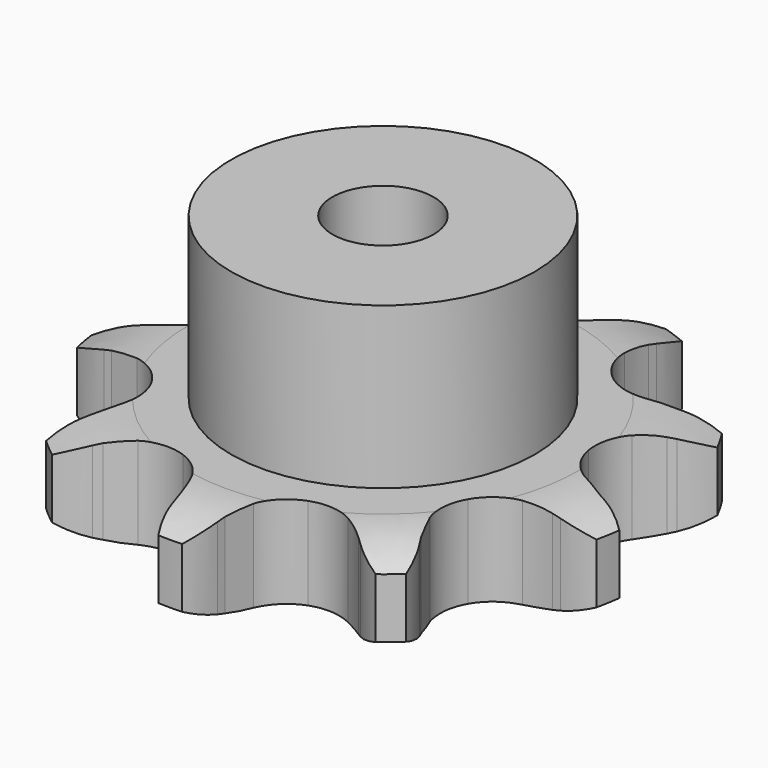
from build123d import *

# Parameters (mm, degrees)
PAD_DEPTH         = 9.1
SKETCH001_R       = 15
PAD001_DEPTH      = 25
SKETCH002_R       = 5
POCKET_DEPTH      = 0.001
POCKET_DEPTH_BACK = -25.001


with BuildPart() as part:
    # Sprocket → Pad (new body)
    with BuildSketch(Plane.XY):
        with BuildLine():
            ThreePointArc((-9.514802, 26.141704), (-7.412353, 24.683771), (-5.825038, 22.67721))
            Line((-5.825038, 22.67721), (-5.434483, 21.997709))
            ThreePointArc((-5.434483, 21.997709), (-4.695224, 20.852068), (-3.842323, 19.78832))
            ThreePointArc((-3.842323, 19.78832), (-2.105709, 18.514982), (0, 18.064197))
            ThreePointArc((0, 18.064197), (2.105709, 18.514982), (3.842323, 19.78832))
            ThreePointArc((3.842323, 19.78832), (4.695224, 20.852068), (5.434483, 21.997709))
            Line((5.434483, 21.997709), (5.825038, 22.67721))
            ThreePointArc((5.825038, 22.67721), (7.412353, 24.683771), (9.514802, 26.141704))
            ThreePointArc((9.514802, 26.141704), (10.18823, 23.673435), (10.114392, 21.116013))
            Line((10.114392, 21.116013), (9.976799, 20.344442))
            ThreePointArc((9.976799, 20.344442), (9.806701, 18.991642), (9.776296, 17.62853))
            ThreePointArc((9.776296, 17.62853), (10.288134, 15.536823), (11.611442, 13.837978))
            ThreePointArc((11.611442, 13.837978), (13.514268, 12.829775), (15.663077, 12.688935))
            Line((15.663077, 12.688935), (18.302911, 13.358005))
            ThreePointArc((18.302911, 13.358005), (18.6689, 13.498181), (19.038868, 13.627489))
            ThreePointArc((19.038868, 13.627489), (21.544615, 14.144297), (24.092324, 13.90971))
            ThreePointArc((24.092324, 13.90971), (23.021628, 11.586035), (21.321185, 9.674399))
            Line((21.321185, 9.674399), (20.719827, 9.171783))
            ThreePointArc((20.719827, 9.171783), (19.719961, 8.244816), (18.820478, 7.220156))
            ThreePointArc((18.820478, 7.220156), (17.868045, 5.288812), (17.789762, 3.136815))
            ThreePointArc((17.789762, 3.136815), (18.59935, 1.141374), (20.154903, -0.347744))
            Line((20.154903, -0.347744), (22.607203, -1.532059))
            ThreePointArc((22.607203, -1.532059), (22.97767, -1.659931), (23.3442, -1.798687))
            ThreePointArc((23.3442, -1.798687), (25.595911, -3.013451), (27.39678, -4.830792))
            ThreePointArc((27.39678, -4.830792), (25.08295, -5.922599), (22.551559, -6.293974))
            Line((22.551559, -6.293974), (21.767817, -6.292454))
            ThreePointArc((21.767817, -6.292454), (20.406032, -6.359851), (19.058349, -6.56661))
            ThreePointArc((19.058349, -6.56661), (17.087299, -7.433893), (15.644054, -9.032099))
            ThreePointArc((15.644054, -9.032099), (14.98159, -11.081089), (15.216026, -13.22171))
            Line((15.216026, -13.22171), (16.333334, -15.705255))
            ThreePointArc((16.333334, -15.705255), (16.534933, -16.041343), (16.726521, -16.383236))
            ThreePointArc((16.726521, -16.383236), (17.670596, -18.761172), (17.881978, -21.310912))
            ThreePointArc((17.881978, -21.310912), (15.407681, -20.659984), (13.229808, -19.317327))
            Line((13.229808, -19.317327), (12.630403, -18.812383))
            ThreePointArc((12.630403, -18.812383), (11.543894, -17.988673), (10.378607, -17.280786))
            ThreePointArc((10.378607, -17.280786), (8.311216, -16.678197), (6.178319, -16.974793))
            ThreePointArc((6.178319, -16.974793), (4.353777, -18.118587), (3.157401, -19.90909))
            Line((3.157401, -19.90909), (2.416916, -22.529788))
            ThreePointArc((2.416916, -22.529788), (2.355317, -22.916832), (2.282317, -23.301888))
            ThreePointArc((2.282317, -23.301888), (1.477013, -25.730332), (0, -27.81942))
            ThreePointArc((0, -27.81942), (-1.477013, -25.730332), (-2.282317, -23.301888))
            Line((-2.282317, -23.301888), (-2.416916, -22.529788))
            ThreePointArc((-2.416916, -22.529788), (-2.71976, -21.200395), (-3.157401, -19.90909))
            ThreePointArc((-3.157401, -19.90909), (-4.353777, -18.118587), (-6.178319, -16.974793))
            ThreePointArc((-6.178319, -16.974793), (-8.311216, -16.678197), (-10.378607, -17.280786))
            Line((-10.378607, -17.280786), (-12.630403, -18.812383))
            ThreePointArc((-12.630403, -18.812383), (-12.926378, -19.06928), (-13.229808, -19.317327))
            ThreePointArc((-13.229808, -19.317327), (-15.407681, -20.659984), (-17.881978, -21.310912))
            ThreePointArc((-17.881978, -21.310912), (-17.670596, -18.761172), (-16.726521, -16.383236))
            Line((-16.726521, -16.383236), (-16.333334, -15.705255))
            ThreePointArc((-16.333334, -15.705255), (-15.710809, -14.492217), (-15.216026, -13.22171))
            ThreePointArc((-15.216026, -13.22171), (-14.98159, -11.081089), (-15.644054, -9.032099))
            ThreePointArc((-15.644054, -9.032099), (-17.087299, -7.433893), (-19.058349, -6.56661))
            Line((-19.058349, -6.56661), (-21.767817, -6.292454))
            ThreePointArc((-21.767817, -6.292454), (-22.159677, -6.299001), (-22.551559, -6.293974))
            ThreePointArc((-22.551559, -6.293974), (-25.08295, -5.922599), (-27.39678, -4.830792))
            ThreePointArc((-27.39678, -4.830792), (-25.595911, -3.013451), (-23.3442, -1.798687))
            Line((-23.3442, -1.798687), (-22.607203, -1.532059))
            ThreePointArc((-22.607203, -1.532059), (-21.350595, -1.002969), (-20.154903, -0.347744))
            ThreePointArc((-20.154903, -0.347744), (-18.59935, 1.141374), (-17.789762, 3.136815))
            ThreePointArc((-17.789762, 3.136815), (-17.868045, 5.288812), (-18.820478, 7.220156))
            Line((-18.820478, 7.220156), (-20.719827, 9.171783))
            ThreePointArc((-20.719827, 9.171783), (-21.024217, 9.418651), (-21.321185, 9.674399))
            ThreePointArc((-21.321185, 9.674399), (-23.021628, 11.586035), (-24.092324, 13.90971))
            ThreePointArc((-24.092324, 13.90971), (-21.544615, 14.144297), (-19.038868, 13.627489))
            Line((-19.038868, 13.627489), (-18.302911, 13.358005))
            ThreePointArc((-18.302911, 13.358005), (-17.000201, 12.955579), (-15.663077, 12.688935))
            ThreePointArc((-15.663077, 12.688935), (-13.514268, 12.829775), (-11.611442, 13.837978))
            ThreePointArc((-11.611442, 13.837978), (-10.288134, 15.536823), (-9.776296, 17.62853))
            Line((-9.776296, 17.62853), (-9.976799, 20.344442))
            ThreePointArc((-9.976799, 20.344442), (-10.051292, 20.729212), (-10.114392, 21.116013))
            ThreePointArc((-10.114392, 21.116013), (-10.18823, 23.673435), (-9.514802, 26.141704))
        make_face()
    extrude(amount=PAD_DEPTH)

    # Sketch → Groove (revolve, cut)
    with BuildSketch(Plane.XZ):
        with BuildLine():
            Line((19.325762, 0), (26.3, 0))
            Line((33.274238, 0), (26.3, 0))
            Line((33.274238, 9.1), (33.274238, 0))
            Line((26.3, 9.1), (33.274238, 9.1))
            Line((19.325762, 9.1), (26.3, 9.1))
            ThreePointArc((26.3, 7.5), (22.90347, 8.694871), (19.325762, 9.1))
            Line((26.3, 1.6), (26.3, 7.5))
            ThreePointArc((19.325762, 0), (22.90347, 0.405129), (26.3, 1.6))
        make_face()
    revolve(axis=Axis((0, 0, 0), (0, 0, 1)), mode=Mode.SUBTRACT)

    # Sketch001 → Pad001 (join)
    with BuildSketch(Plane.XY):
        Circle(SKETCH001_R)
    extrude(amount=PAD001_DEPTH)

    # Sketch002 → Pocket (cut, two sides)
    with BuildSketch(Plane.XY) as pocket_sk:
        Circle(SKETCH002_R)
    extrude(amount=-POCKET_DEPTH, mode=Mode.SUBTRACT)
    extrude(pocket_sk.sketch, amount=-POCKET_DEPTH_BACK, mode=Mode.SUBTRACT)


solid = part.part
